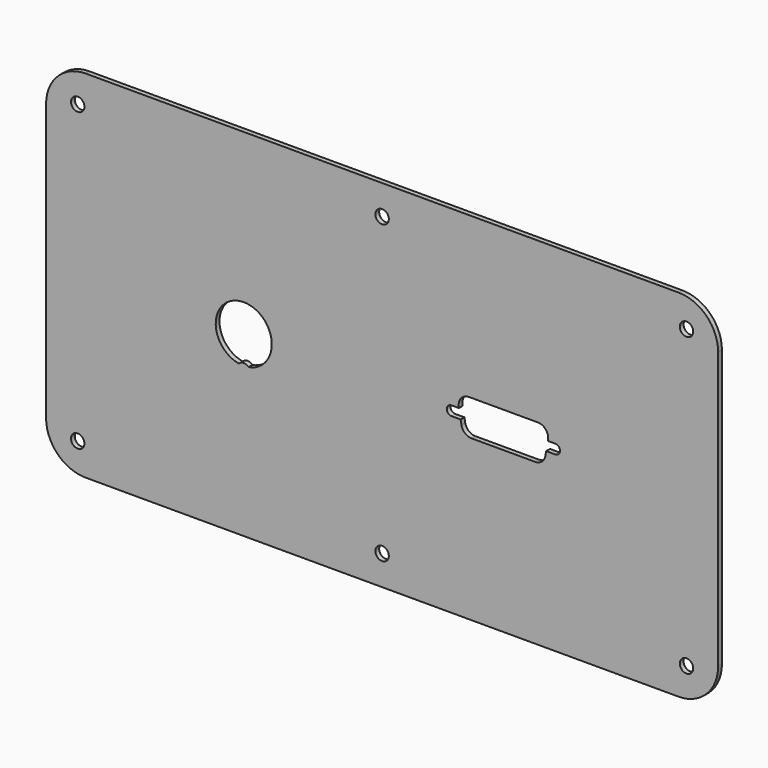
from build123d import *

# Parameters (mm, degrees)
F1_DEPTH = 1.524
F3_DEPTH = 1.525
F5_D     = 4.318


with BuildPart() as f1:
    # F0 (on Front) → F1 (new body)
    with BuildSketch(Plane.XZ):
        with BuildLine():
            Line((203.2, 0), (12.7, 0))
            ThreePointArc((12.7, 0), (3.7197438789, -3.7197438789), (0, -12.7))
            Line((0, -12.7), (0, -101.6))
            ThreePointArc((0, -101.6), (3.7197438789, -110.5802561211), (12.7, -114.3))
            Line((12.7, -114.3), (203.2, -114.3))
            ThreePointArc((203.2, -114.3), (212.1802561211, -110.5802561211), (215.9, -101.6))
            Line((215.9, -101.6), (215.9, -12.7))
            ThreePointArc((215.9, -12.7), (212.1802561211, -3.7197438789), (203.2, 0))
        make_face()
    extrude(amount=F1_DEPTH)

    # F2 (on face) → F3 (cut, through all)
    with BuildSketch(Plane.XZ.offset(1.524)):
        with BuildLine():
            ThreePointArc((61.9608133082, -66.0217711207), (63.5, -65.3542), (65.0391866918, -66.0217711207))
            ThreePointArc((65.0391866918, -66.0217711207), (63.5, -48.1457), (61.9608133082, -66.0217711207))
        make_face()
        with BuildLine():
            ThreePointArc((157.1370459911, -62.865), (159.2595306783, -62.0924787512), (160.3888811915, -60.1363862827))
            Line((160.3888811915, -60.1363862827), (160.6467393494, -58.674))
            Line((160.6467393494, -58.674), (163.576, -58.674))
            ThreePointArc((163.576, -58.674), (165.1, -57.15), (163.576, -55.626))
            Line((163.576, -55.626), (161.1841839866, -55.626))
            Line((161.1841839866, -55.626), (161.2398352004, -55.3103862827))
            ThreePointArc((161.2398352004, -55.3103862827), (160.5174787512, -52.6145153128), (157.988, -51.435))
            Line((157.988, -51.435), (135.8392, -51.435))
            ThreePointArc((135.8392, -51.435), (133.3097212488, -52.6145153128), (132.5873647996, -55.3103862827))
            Line((132.5873647996, -55.3103862827), (132.6430160134, -55.626))
            Line((132.6430160134, -55.626), (130.2512, -55.626))
            ThreePointArc((130.2512, -55.626), (128.7272, -57.15), (130.2512, -58.674))
            Line((130.2512, -58.674), (133.1804606506, -58.674))
            Line((133.1804606506, -58.674), (133.4383188085, -60.1363862827))
            ThreePointArc((133.4383188085, -60.1363862827), (134.5676693217, -62.0924787512), (136.6901540089, -62.865))
            Line((136.6901540089, -62.865), (157.1370459911, -62.865))
        make_face()
    extrude(amount=-F3_DEPTH, mode=Mode.SUBTRACT)

    # F5 (through all)
    with Locations(Plane.XZ.offset(1.524)):
        with Locations((10.16, -9.525), (107.95, -9.525), (205.74, -9.525), (205.74, -104.775), (107.95, -104.775), (10.16, -104.775)):
            Hole(F5_D / 2)


solid = f1.part
